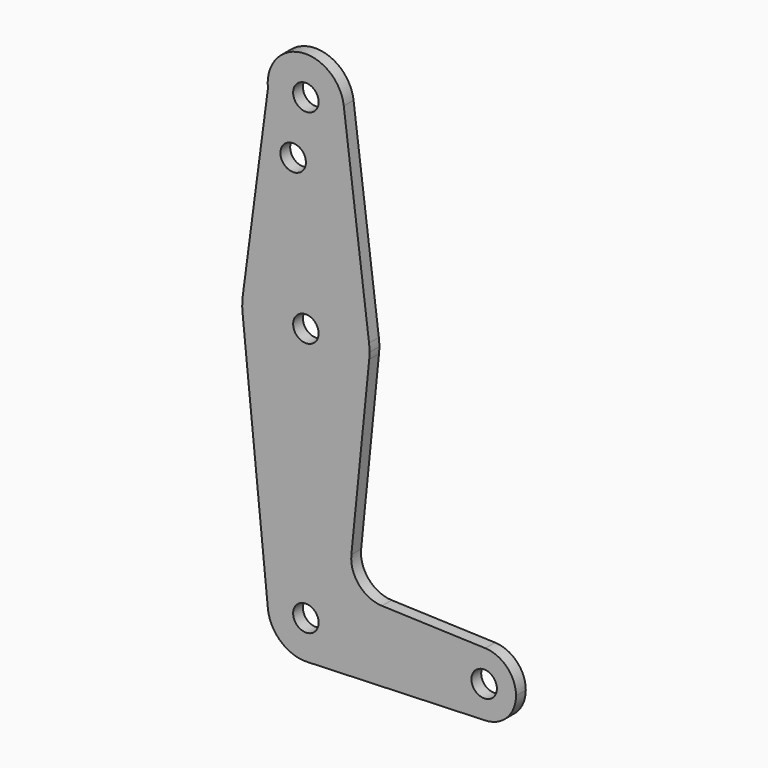
from build123d import *

# Parameters (mm, degrees)
F0_R     = 3.175
F1_DEPTH = 3.048


with BuildPart() as f1:
    # F0 (on Front) → F1 (new body)
    with BuildSketch(Plane.XZ):
        with BuildLine():
            ThreePointArc((9.450293, 115.490625), (9.506305, 114.896483), (9.525, 114.3))
            ThreePointArc((9.525, 114.3), (0.563538, 104.791685), (-9.458318, 113.174899))
            Line((-9.458318, 113.174899), (-15.738594, 65.576602))
            ThreePointArc((-15.738594, 65.576602), (0.046495, 79.374932), (15.750488, 65.484375))
            Line((15.750488, 65.484375), (9.450293, 115.490625))
        make_face()
        with Locations((-3.175, 100.0252)):
            Circle(F0_R, mode=Mode.SUBTRACT)
        with BuildLine():
            ThreePointArc((-9.458318, 113.174899), (0.563538, 104.791685), (9.525, 114.3))
            ThreePointArc((9.525, 114.3), (9.506305, 114.896483), (9.450293, 115.490625))
            ThreePointArc((9.450293, 115.490625), (-1.15787, 123.754362), (-9.458318, 113.174899))
        make_face()
        with Locations((0, 114.3)):
            Circle(F0_R, mode=Mode.SUBTRACT)
        with BuildLine():
            ThreePointArc((15.875, 63.5), (15.843841, 64.494139), (15.750488, 65.484375))
            ThreePointArc((15.750488, 65.484375), (0.046495, 79.374932), (-15.738594, 65.576602))
            ThreePointArc((-15.738594, 65.576602), (-15.873091, 63.746196), (-15.795426, 61.9125))
            ThreePointArc((-15.795426, 61.9125), (0, 47.625), (15.795426, 61.9125))
            ThreePointArc((15.795426, 61.9125), (15.855094, 62.705253), (15.875, 63.5))
        make_face()
        with Locations((0, 63.5)):
            Circle(F0_R, mode=Mode.SUBTRACT)
        with BuildLine():
            ThreePointArc((15.795426, 61.9125), (0, 47.625), (-15.795426, 61.9125))
            Line((-15.795426, 61.9125), (-9.477255, -0.9525))
            ThreePointArc((-9.477255, -0.9525), (-0.476848, 9.513056), (9.525, 0))
            ThreePointArc((9.525, 0), (6.854408, -6.613827), (0.340179, -9.518923))
            Line((0.340179, -9.518923), (44.733482, -7.932436))
            ThreePointArc((44.733482, -7.932436), (36.5125, 0), (44.733482, 7.932436))
            Line((44.733482, 7.932436), (18.9676, 8.853234))
            ThreePointArc((18.9676, 8.853234), (13.2612, 11.571359), (11.341187, 17.593382))
            Line((11.341187, 17.593382), (15.795426, 61.9125))
        make_face()
        with BuildLine():
            ThreePointArc((9.525, 0), (-0.476848, 9.513056), (-9.477255, -0.9525))
            ThreePointArc((-9.477255, -0.9525), (-6.262383, -7.17692), (0.340179, -9.518923))
            ThreePointArc((0.340179, -9.518923), (6.854408, -6.613827), (9.525, 0))
        make_face()
        Circle(F0_R, mode=Mode.SUBTRACT)
        with BuildLine():
            ThreePointArc((44.733482, 7.932436), (36.5125, 0), (44.733482, -7.932436))
            ThreePointArc((44.733482, -7.932436), (50.162007, -5.511523), (52.3875, 0))
            ThreePointArc((52.3875, 0), (50.162007, 5.511523), (44.733482, 7.932436))
        make_face()
        with Locations((44.45, 0)):
            Circle(F0_R, mode=Mode.SUBTRACT)
    extrude(amount=F1_DEPTH)


solid = f1.part
